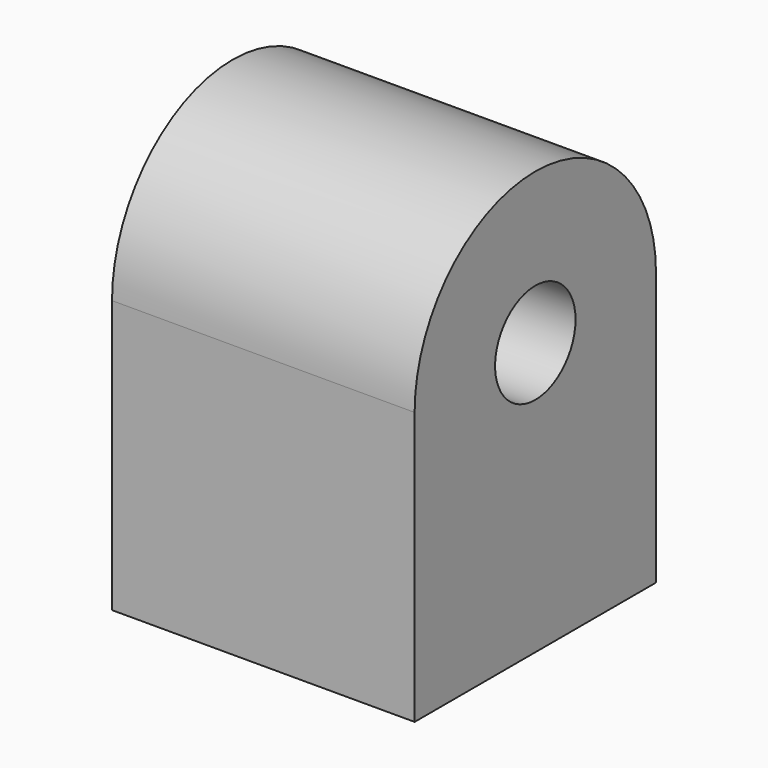
from build123d import *

# Parameters (mm, degrees)
F0_W     = 24.9174
F0_H     = 22.5044
F1_DEPTH = 24.9936
F2_R     = 4.1529
F3_DEPTH = 24.9946


with BuildPart() as f1:
    # F0 (on Right) → F1 (new body)
    with BuildSketch(Plane.YZ):
        with Locations((12.4587, 11.2522)):
            Rectangle(F0_W, F0_H)
        with BuildLine():
            ThreePointArc((24.9174, 22.5044), (12.4587, 34.9631), (0, 22.5044))
            Line((0, 22.5044), (24.9174, 22.5044))
        make_face()
    extrude(amount=-F1_DEPTH)

    # F2 (on face) → F3 (cut, through all)
    with BuildSketch(Plane.YZ):
        with Locations((12.4587, 22.5044)):
            Circle(F2_R)
    extrude(amount=-F3_DEPTH, mode=Mode.SUBTRACT)


solid = f1.part
